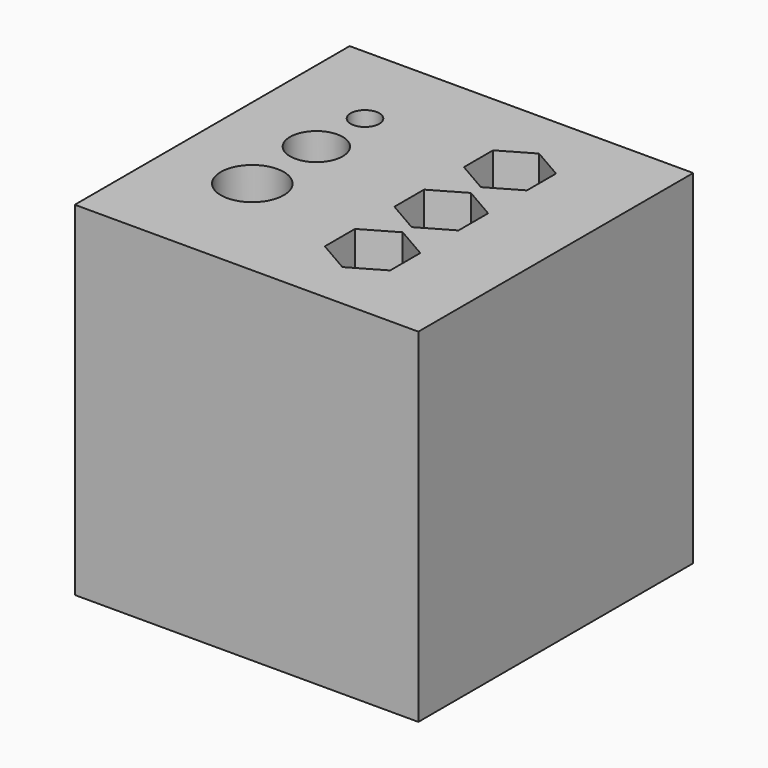
from build123d import *

# Parameters (mm, degrees)
SKETCH_W        = 30
SKETCH_H        = 30
PAD_DEPTH       = 15
SKETCH001_R     = 1.6
SKETCH001_R_2   = 2.6
SKETCH001_R_3   = 3.1
POCKET_DEPTH    = 15.001
SKETCH002_R     = 1.25
SKETCH002_R_2   = 2.3
SKETCH002_R_3   = 2.75
POCKET001_DEPTH = 15.001
SKETCH003_W     = 10
SKETCH003_H     = 10
POCKET002_DEPTH = 3


with BuildPart() as part:
    # Sketch → Pad (new body, symmetric)
    with BuildSketch(Plane.XZ):
        Rectangle(SKETCH_W, SKETCH_H)
    extrude(amount=PAD_DEPTH, both=True)

    # Sketch001 → Pocket (cut, through all)
    with BuildSketch(Plane.XY):
        with Locations((-7.5, 7.300443)):
            Circle(SKETCH001_R)
        with Locations((-7.5, 1.991905)):
            Circle(SKETCH001_R_2)
        with Locations((-7.5, -5)):
            Circle(SKETCH001_R_3)
        with Locations((5, 7.5)):
            Circle(SKETCH001_R)
        with Locations((5, 0)):
            Circle(SKETCH001_R)
        with Locations((5, -7.5)):
            Circle(SKETCH001_R)
    extrude(amount=-POCKET_DEPTH, mode=Mode.SUBTRACT)

    # Sketch002 → Pocket001 (cut, through all)
    with BuildSketch(Plane.XY):
        with Locations((-7.5, 7.300443)):
            Circle(SKETCH002_R)
        with Locations((-7.5, 1.991905)):
            Circle(SKETCH002_R_2)
        with Locations((-7.5, -5)):
            Circle(SKETCH002_R_3)
        Polygon((7.75, 5.912287), (7.75, 9.087713), (5, 10.675426), (2.25, 9.087713), (2.25, 5.912287), (5, 4.324574), align=None)
        Polygon((7.8, -1.616581), (7.8, 1.616581), (5, 3.233162), (2.2, 1.616581), (2.2, -1.616581), (5, -3.233162), align=None)
        Polygon((7.85, -9.145448), (7.85, -5.854552), (5, -4.209103), (2.15, -5.854552), (2.15, -9.145448), (5, -10.790897), align=None)
    extrude(amount=POCKET001_DEPTH, mode=Mode.SUBTRACT)

    # Sketch003 (on Face2 of Pocket001) → Pocket002 (cut)
    with BuildSketch(Plane(origin=(-15, 0, 0), x_dir=(0, 0, -1), z_dir=(-1, 0, 0))):
        Rectangle(SKETCH003_W, SKETCH003_H)
    extrude(amount=-POCKET002_DEPTH, mode=Mode.SUBTRACT)


solid = part.part
